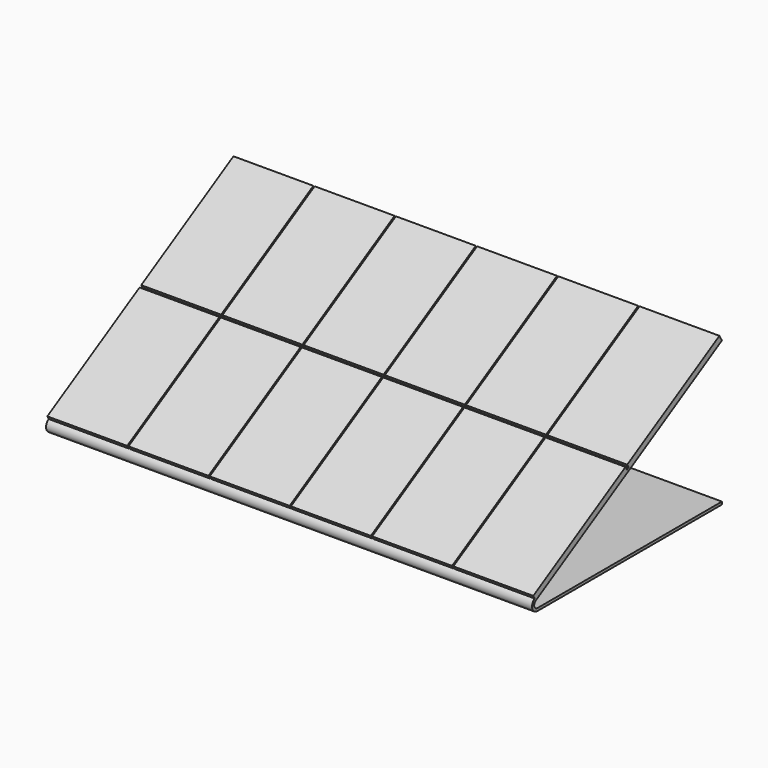
from build123d import *

# Parameters (mm, degrees)
F1_DEPTH = 365
F2_R     = 3
F3_R     = 5
F4_W     = 60
F4_H     = 100
F5_DEPTH = 2.7


with BuildPart() as f1:
    # F0 (on Right) → F1 (new body)
    with BuildSketch(Plane.YZ):
        Polygon((0, 0), (0, 2), (-184.4634110061, 2), (0, 108.5), (-1, 110.2320508076), (-191.9275126212, 0), align=None)
    extrude(amount=F1_DEPTH)

    # F2
    f2_edges = [f1.edges().sort_by_distance(p)[0] for p in [
        (182.5, -184.463411, 2),
    ]]
    fillet(f2_edges, radius=F2_R)

    # F3
    f3_edges = [f1.edges().sort_by_distance(p)[0] for p in [
        (182.5, -191.927513, 0),
    ]]
    fillet(f3_edges, radius=F3_R)

    # F4 (on face) → F5 (join)
    with BuildSketch(Plane(origin=(0, -47.9818781553, 83.1070508076), x_dir=(1, 0, 0), z_dir=(0, -0.5, 0.8660254038))):
        with Locations((30, 4.25)):
            Rectangle(F4_W, F4_H)
        with Locations((91, 4.25)):
            Rectangle(F4_W, F4_H)
        with Locations((152, 4.25)):
            Rectangle(F4_W, F4_H)
        with Locations((213, 4.25)):
            Rectangle(F4_W, F4_H)
        with Locations((274, 4.25)):
            Rectangle(F4_W, F4_H)
        with Locations((335, 4.25)):
            Rectangle(F4_W, F4_H)
        with Locations((30, -97.5538475773)):
            Rectangle(F4_W, F4_H)
        with Locations((91, -97.5538475773)):
            Rectangle(F4_W, F4_H)
        with Locations((152, -97.5538475773)):
            Rectangle(F4_W, F4_H)
        with Locations((213, -97.5538475773)):
            Rectangle(F4_W, F4_H)
        with Locations((274, -97.5538475773)):
            Rectangle(F4_W, F4_H)
        with Locations((335, -97.5538475773)):
            Rectangle(F4_W, F4_H)
    extrude(amount=F5_DEPTH)


solid = f1.part
